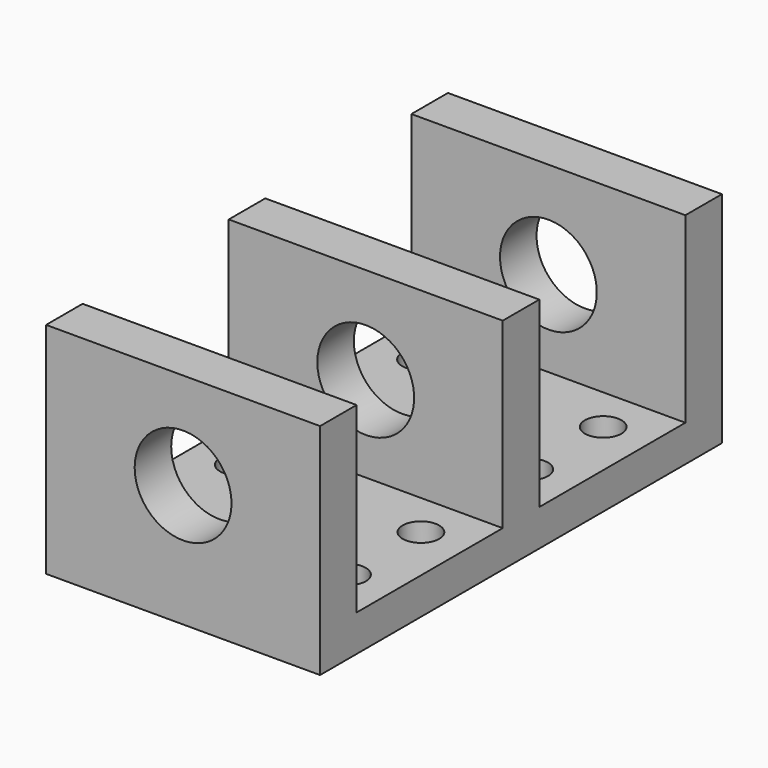
from build123d import *

# Parameters (mm, degrees)
F0_W     = 30
F0_H     = 55
F1_DEPTH = 4
F2_R     = 2
F3_DEPTH = 4
F4_W     = 30
F4_H     = 5
F5_DEPTH = 20
F6_R     = 5.3
F7_DEPTH = 55.001
F8_R     = 2
F9_DEPTH = 4


with BuildPart() as f1:
    # F0 (on Top) → F1 (new body)
    with BuildSketch(Plane.XY):
        Rectangle(F0_W, F0_H)
    extrude(amount=F1_DEPTH)

    # F2 (on face) → F3 (cut)
    with BuildSketch(Plane.XY.offset(4)):
        with Locations((0, -17.5)):
            Circle(F2_R)
        with Locations((0, 17.5)):
            Circle(F2_R)
    extrude(amount=-F3_DEPTH, mode=Mode.SUBTRACT)

    # F4 (on face) → F5 (join)
    with BuildSketch(Plane.XY.offset(4)):
        with Locations((0, 25)):
            Rectangle(F4_W, F4_H)
        Rectangle(F4_W, F4_H)
        with Locations((0, -25)):
            Rectangle(F4_W, F4_H)
    extrude(amount=F5_DEPTH)

    # F6 (on face) → F7 (cut, through all)
    with BuildSketch(Plane(origin=(0, 27.5, 0), x_dir=(-1, 0, 0), z_dir=(0, 1, 0))):
        with Locations((0, 13.4)):
            Circle(F6_R)
    extrude(amount=-F7_DEPTH, mode=Mode.SUBTRACT)

    # F8 (on face) → F9 (cut)
    with BuildSketch(Plane(origin=(0, 0, 0), x_dir=(1, 0, 0), z_dir=(0, 0, -1))):
        with Locations((10, -17.5)):
            Circle(F8_R)
        with Locations((10, -7.446962)):
            Circle(F8_R)
        with Locations((-10, -17.5)):
            Circle(F8_R)
        with Locations((-10, -7.446962)):
            Circle(F8_R)
        with Locations((-10, 7.446962)):
            Circle(F8_R)
        with Locations((-10, 17.5)):
            Circle(F8_R)
        with Locations((10, 17.5)):
            Circle(F8_R)
        with Locations((10, 7.446962)):
            Circle(F8_R)
        with Locations((0, -7.446962)):
            Circle(F8_R)
        with Locations((0, 7.446962)):
            Circle(F8_R)
    extrude(amount=-F9_DEPTH, mode=Mode.SUBTRACT)


solid = f1.part
